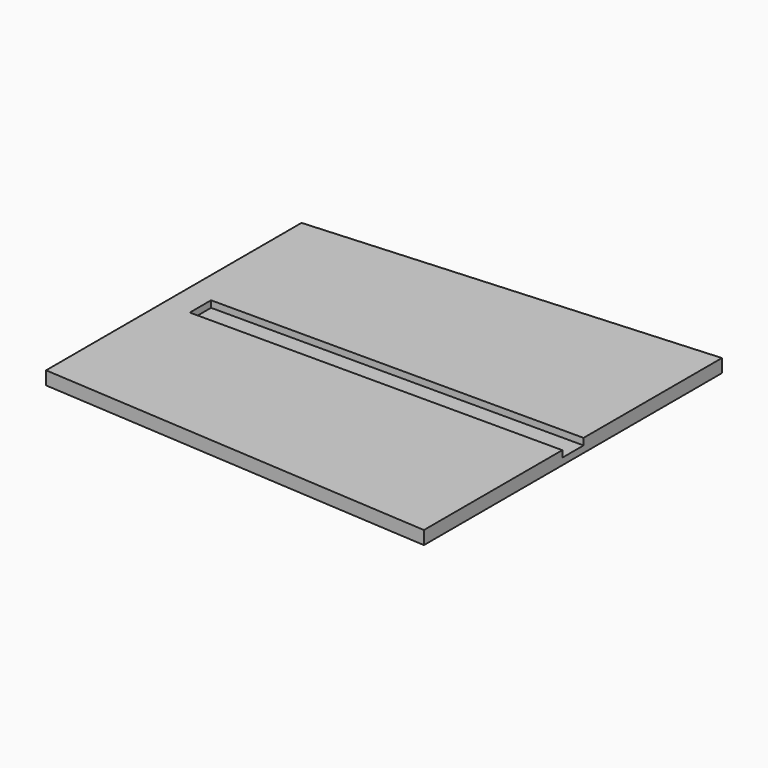
from build123d import *

# Parameters (mm, degrees)
F1_DEPTH = 6.35
F3_DEPTH = 6.35


with BuildPart() as f1:
    # F0 (on Top) → F1 (new body)
    with BuildSketch(Plane.XY):
        Polygon((-193.445153, 222.700853), (-193.445153, -82.099147), (187.554847, -107.499147), (187.554847, 248.100853), align=None)
    extrude(amount=F1_DEPTH)

    # F2 (on face) → F3 (join)
    with BuildSketch(Plane.XY.offset(6.35)):
        Polygon((-168.045153, 57.600853), (-168.045153, 83.000853), (187.554847, 83.000853), (187.554847, 248.100853), (-193.445153, 222.700853), (-193.445153, -82.099147), (187.554847, -107.499147), (187.554847, 57.600853), align=None)
    extrude(amount=F3_DEPTH)


solid = f1.part
